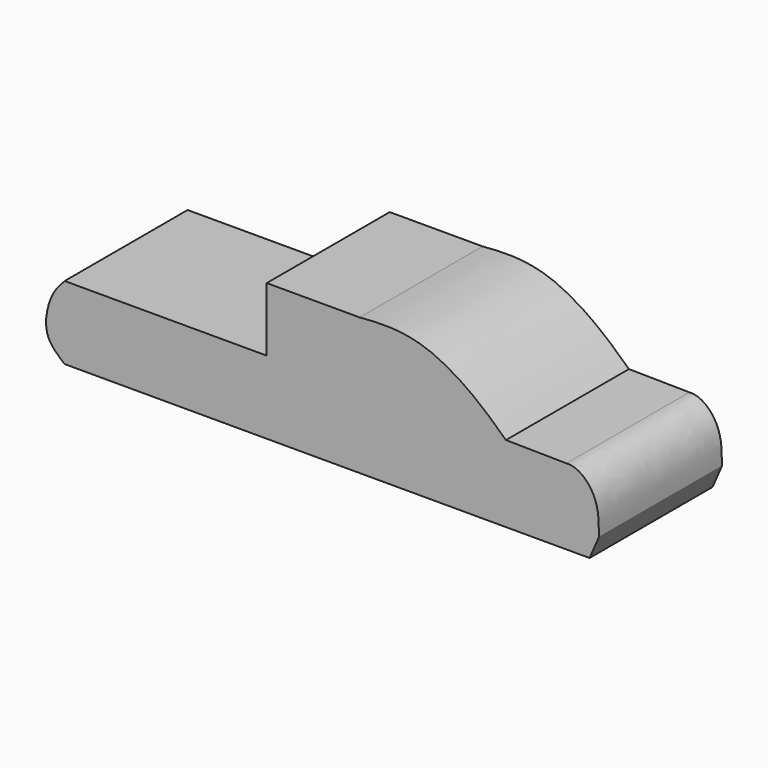
from build123d import *

# Parameters (mm, degrees)
F1_DEPTH = 38.1


with BuildPart() as f1:
    # F0 (on Front) → F1 (new body)
    with BuildSketch(Plane.XZ):
        with BuildLine():
            add(Edge.make_bspline(
                [(68.6553490639, 0), (67.8833100518, -1.7748021831), (67.1112710397, -3.5496043662), (66.3392320275, -5.3244065493)],
                knots=[0, 0, 0, 0, 5.8063502503, 5.8063502503, 5.8063502503, 5.8063502503], degree=3))
            add(Edge.make_bspline(
                [(68.6553490639, 0), (68.707247909, 3.4879189514), (68.4529513003, 9.3567744092), (63.2849889631, 13.6707741767), (60.5968596619, 13.4617609131)],
                knots=[0, 0, 0, 0, 0.522788236, 1, 1, 1, 1], degree=3))
            Line((60.5968596619, 13.4617609131), (45.6172116101, 13.6707741767))
            add(Edge.make_bspline(
                [(45.6172116101, 13.6707741767), (43.0083947662, 16.1005357318), (37.5783462559, 21.1578946428), (26.441282578, 27.898149577), (16.7039788369, 29.2117741809), (11.6813281493, 28.8187924523), (9.3536879867, 28.6366734654)],
                knots=[0, 0, 0, 0, 0.26138691, 0.5440564386, 0.7887026968, 1, 1, 1, 1], degree=3))
            Line((9.3536879867, 28.6366734654), (0, 28.6366734654))
            Line((0, 28.6366734654), (-13.6707732454, 28.6366734654))
            Line((-13.6707732454, 28.6366734654), (-13.6707732454, 12.8073561937))
            Line((-13.6707732454, 12.8073561937), (-63.7489780784, 12.8073561937))
            add(Edge.make_bspline(
                [(-63.7489780784, 12.8073561937), (-64.8843970064, 11.6005592617), (-67.4562184604, 8.8670604943), (-69.4633168913, -0.5921410666), (-65.5816661345, -3.8066865274), (-63.7489780784, -5.3244065493)],
                knots=[0, 0, 0, 0, 0.2944087678, 0.6668611617, 1, 1, 1, 1], degree=3))
            Line((-63.7489780784, -5.3244065493), (66.3392320275, -5.3244065493))
        make_face()
    extrude(amount=F1_DEPTH)


solid = f1.part
